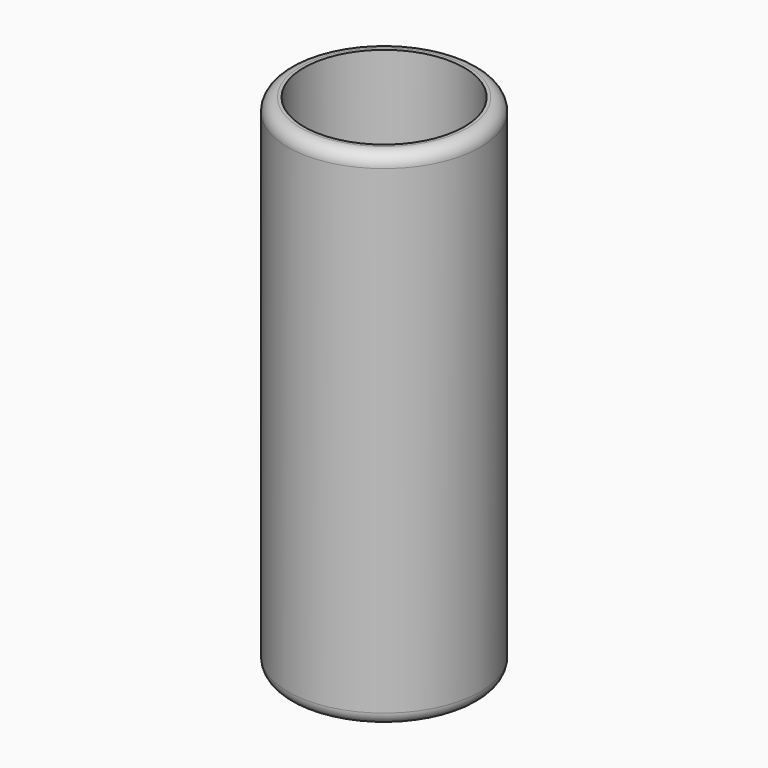
from build123d import *

# Parameters (mm, degrees)
F0_R     = 38.1
F0_R_2   = 31.75
F1_DEPTH = 200.025
F2_R     = 5.08


with BuildPart() as f1:
    # F0 (on Top) → F1 (new body)
    with BuildSketch(Plane.XY):
        Circle(F0_R)
        Circle(F0_R_2, mode=Mode.SUBTRACT)
    extrude(amount=-F1_DEPTH)

    # F2
    f2_edges = [f1.edges().sort_by_distance(p)[0] for p in [
        (-38.1, 0, 0),
        (-38.1, 0, -200.025),
    ]]
    fillet(f2_edges, radius=F2_R)


solid = f1.part
